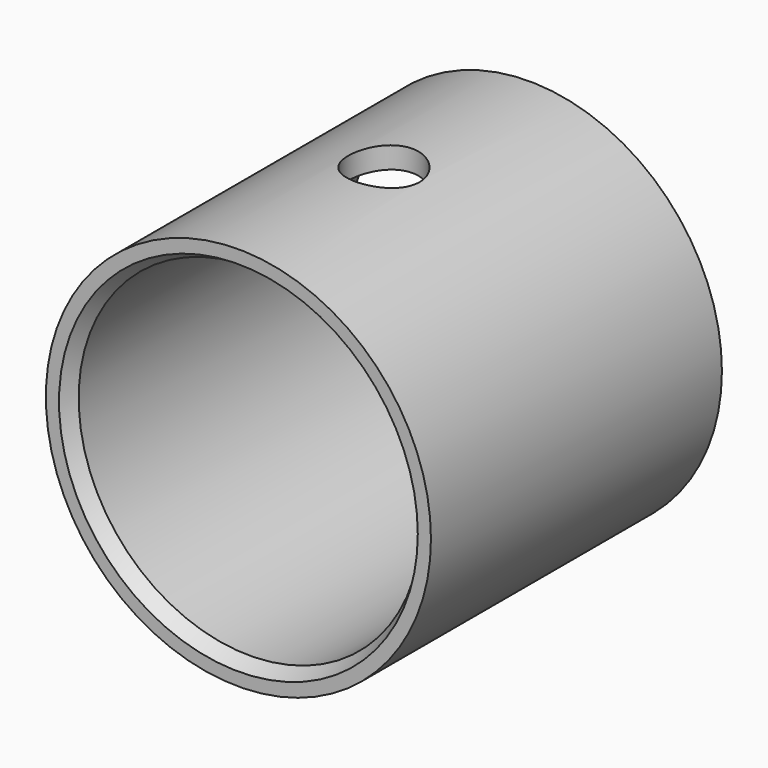
from build123d import *

# Parameters (mm, degrees)
F0_R     = 13.5
F0_R_2   = 12
F1_DEPTH = 12.75
F2_SIZE2 = 0.5773502692
F2_SIZE  = 1
F3_R     = 2.5
F4_DEPTH = 13.501


with BuildPart() as f1:
    # F0 (on Front) → F1 (new body, symmetric)
    with BuildSketch(Plane.XZ):
        Circle(F0_R)
        Circle(F0_R_2, mode=Mode.SUBTRACT)
    extrude(amount=F1_DEPTH, both=True)

    # F2
    f2_edges = [f1.edges().sort_by_distance(p)[0] for p in [
        (-12, -12.75, 0),
        (-12, 12.75, 0),
    ]]
    f2_side = f1.faces().sort_by_distance((-12, 0, 0))[0]
    chamfer(f2_edges, length=F2_SIZE, length2=F2_SIZE2, reference=f2_side)

    # F3 (on Top) → F4 (cut, through all)
    with BuildSketch(Plane.XY):
        Circle(F3_R)
    extrude(amount=F4_DEPTH, mode=Mode.SUBTRACT)


solid = f1.part
